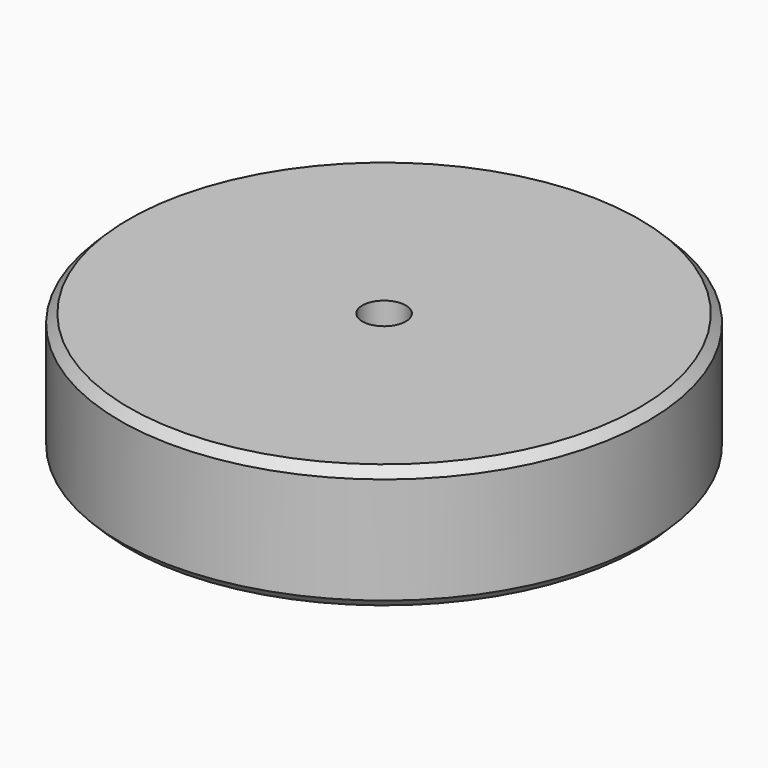
from build123d import *

# Parameters (mm, degrees)
F0_R     = 42.5
F0_R_2   = 3.5
F1_DEPTH = 20
F2_START = 18
F2_DEPTH = 2
F3_SIZE  = 1.414
F4_SIZE  = 1.414


with BuildPart() as f1:
    # F0 (on Top) → F1 (new body)
    with BuildSketch(Plane.XY):
        Circle(F0_R)
        Polygon((-4.9074772881, -13.5), (4.9074772881, -13.5), (9.8149545762, -22), (4.9074772881, -30.5), (-4.9074772881, -30.5), (-9.8149545762, -22), align=None, mode=Mode.SUBTRACT)
        Polygon((-14.1450815951, -2.5), (-9.237604307, -11), (-14.1450815951, -19.5), (-23.9600361714, -19.5), (-28.8675134595, -11), (-23.9600361714, -2.5), align=None, mode=Mode.SUBTRACT)
        Polygon((9.237604307, -11), (14.1450815951, -2.5), (23.9600361714, -2.5), (28.8675134595, -11), (23.9600361714, -19.5), (14.1450815951, -19.5), align=None, mode=Mode.SUBTRACT)
        Polygon((-9.237604307, 11), (-14.1450815951, 2.5), (-23.9600361714, 2.5), (-28.8675134595, 11), (-23.9600361714, 19.5), (-14.1450815951, 19.5), align=None, mode=Mode.SUBTRACT)
        Circle(F0_R_2, mode=Mode.SUBTRACT)
        Polygon((14.1450815951, 2.5), (9.237604307, 11), (14.1450815951, 19.5), (23.9600361714, 19.5), (28.8675134595, 11), (23.9600361714, 2.5), align=None, mode=Mode.SUBTRACT)
        Polygon((9.8149545762, 22), (4.9074772881, 13.5), (-4.9074772881, 13.5), (-9.8149545762, 22), (-4.9074772881, 30.5), (4.9074772881, 30.5), align=None, mode=Mode.SUBTRACT)
    extrude(amount=F1_DEPTH)

    # F0 (on Top) → F2 (join)
    with BuildSketch(Plane.XY.offset(F2_START)):
        Polygon((-23.9600361714, 2.5), (-14.1450815951, 2.5), (-9.237604307, 11), (-14.1450815951, 19.5), (-23.9600361714, 19.5), (-28.8675134595, 11), align=None)
        Polygon((-4.9074772881, 13.5), (4.9074772881, 13.5), (9.8149545762, 22), (4.9074772881, 30.5), (-4.9074772881, 30.5), (-9.8149545762, 22), align=None)
        Polygon((14.1450815951, 19.5), (9.237604307, 11), (14.1450815951, 2.5), (23.9600361714, 2.5), (28.8675134595, 11), (23.9600361714, 19.5), align=None)
        Polygon((23.9600361714, -2.5), (14.1450815951, -2.5), (9.237604307, -11), (14.1450815951, -19.5), (23.9600361714, -19.5), (28.8675134595, -11), align=None)
        Polygon((9.8149545762, -22), (4.9074772881, -13.5), (-4.9074772881, -13.5), (-9.8149545762, -22), (-4.9074772881, -30.5), (4.9074772881, -30.5), align=None)
        Polygon((-14.1450815951, -19.5), (-9.237604307, -11), (-14.1450815951, -2.5), (-23.9600361714, -2.5), (-28.8675134595, -11), (-23.9600361714, -19.5), align=None)
    extrude(amount=F2_DEPTH)

    # F3
    f3_edges = [f1.edges().sort_by_distance(p)[0] for p in [
        (-42.5, 0, 20),
    ]]
    chamfer(f3_edges, length=F3_SIZE)

    # F4
    f4_edges = [f1.edges().sort_by_distance(p)[0] for p in [
        (-42.5, 0, 0),
    ]]
    chamfer(f4_edges, length=F4_SIZE)


solid = f1.part
